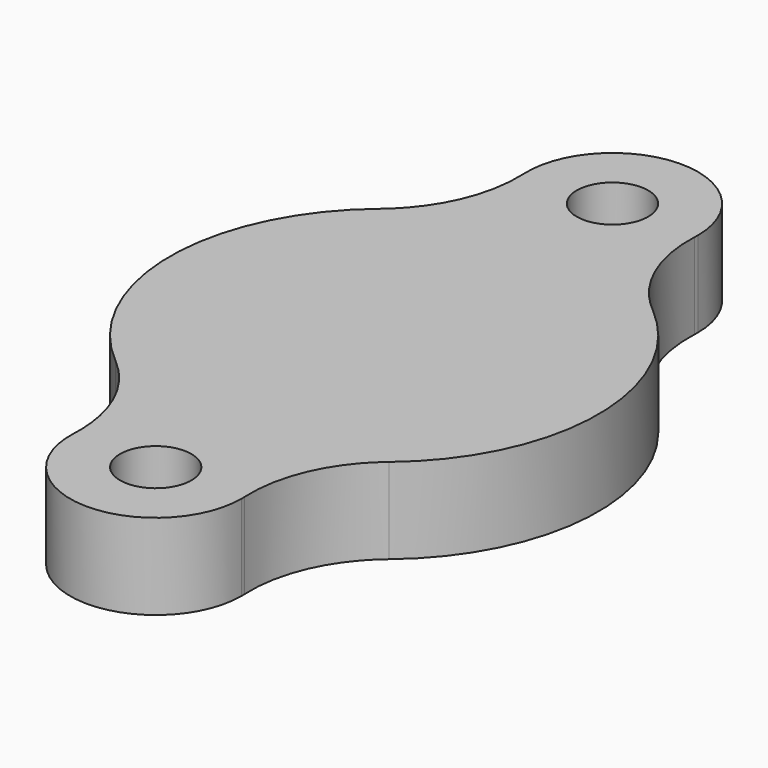
from build123d import *

# Parameters (mm, degrees)
F1_DEPTH = 3
F2_R     = 5
F3_D     = 2.5


with BuildPart() as f1:
    # F0 (on Top) → F1 (new body)
    with BuildSketch(Plane.XY):
        with BuildLine():
            ThreePointArc((1.4295431963, 7.3625), (2.5776568419, 8.4651758389), (3, 10))
            ThreePointArc((3, 10), (-1.5348241611, 12.5776568419), (-1.4295431963, 7.3625))
            ThreePointArc((-1.4295431963, 7.3625), (0, 7.5), (1.4295431963, 7.3625))
        make_face()
        with BuildLine():
            ThreePointArc((1.4295431963, -7.3625), (0, -7), (-1.4295431963, -7.3625))
            ThreePointArc((-1.4295431963, -7.3625), (0, -7.5), (1.4295431963, -7.3625))
        make_face()
        with BuildLine():
            ThreePointArc((1.4295431963, 7.3625), (0, 7), (-1.4295431963, 7.3625))
            ThreePointArc((-1.4295431963, 7.3625), (-7.5, 0), (-1.4295431963, -7.3625))
            ThreePointArc((-1.4295431963, -7.3625), (0, -7), (1.4295431963, -7.3625))
            ThreePointArc((1.4295431963, -7.3625), (5.7866905037, -4.7711857032), (7.5, 0))
            ThreePointArc((7.5, 0), (5.7866905037, 4.7711857032), (1.4295431963, 7.3625))
        make_face()
        with BuildLine():
            ThreePointArc((1.4295431963, 7.3625), (0, 7.5), (-1.4295431963, 7.3625))
            ThreePointArc((-1.4295431963, 7.3625), (0, 7), (1.4295431963, 7.3625))
        make_face()
        with BuildLine():
            ThreePointArc((1.4295431963, -7.3625), (0, -7.5), (-1.4295431963, -7.3625))
            ThreePointArc((-1.4295431963, -7.3625), (-1.5348241611, -12.5776568419), (3, -10))
            ThreePointArc((3, -10), (2.5776568419, -8.4651758389), (1.4295431963, -7.3625))
        make_face()
    extrude(amount=F1_DEPTH)

    # F2
    f2_edges = [f1.edges().sort_by_distance(p)[0] for p in [
        (-1.429543, -7.3625, 1.5),
        (1.429543, -7.3625, 1.5),
        (-1.429543, 7.3625, 1.5),
        (1.429543, 7.3625, 1.5),
    ]]
    fillet(f2_edges, radius=F2_R)

    # F3 (through all)
    with Locations(Plane(origin=(0, 0, 0), x_dir=(1, 0, 0), z_dir=(0, 0, -1))):
        with Locations((0, 10), (0, -10)):
            Hole(F3_D / 2)


solid = f1.part
